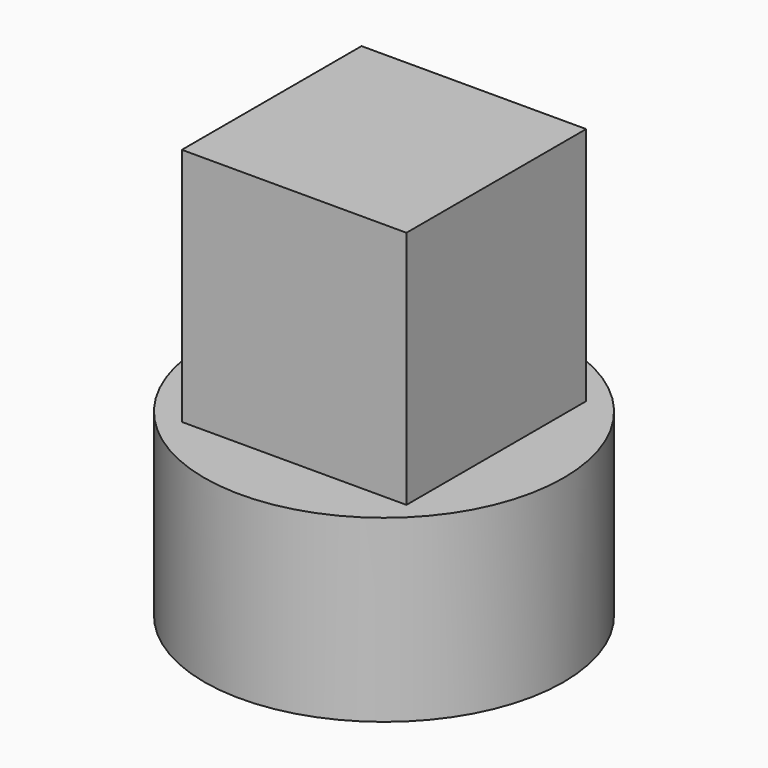
from build123d import *

# Parameters (mm, degrees)
SKETCH079_W     = 3.75
SKETCH079_H     = 3.75
PAD046_DEPTH    = 4
SKETCH080_R     = 3
PAD047_DEPTH    = 3
SKETCH081_W     = 2.25
SKETCH081_H     = 2.25
POCKET034_DEPTH = 3


with BuildPart() as part:
    # Sketch079 → Pad046 (new body)
    with BuildSketch(Plane(origin=(0, 0, 22), x_dir=(1, 0, 0), z_dir=(0, 0, -1))):
        with Locations((5.5, 22.5)):
            Rectangle(SKETCH079_W, SKETCH079_H)
    extrude(amount=-PAD046_DEPTH)

    # Sketch080 (on Face5 of Pad046) → Pad047 (join)
    with BuildSketch(Plane(origin=(0, 0, 22), x_dir=(1, 0, 0), z_dir=(0, 0, -1))):
        with Locations((5.5, 22.5)):
            Circle(SKETCH080_R)
    extrude(amount=PAD047_DEPTH)

    # Sketch081 (on Face3 of Pad047) → Pocket034 (cut)
    with BuildSketch(Plane(origin=(0, 0, 19), x_dir=(1, 0, 0), z_dir=(0, 0, -1))):
        with Locations((5.5, 22.5)):
            Rectangle(SKETCH081_W, SKETCH081_H)
    extrude(amount=-POCKET034_DEPTH, mode=Mode.SUBTRACT)


solid = part.part
